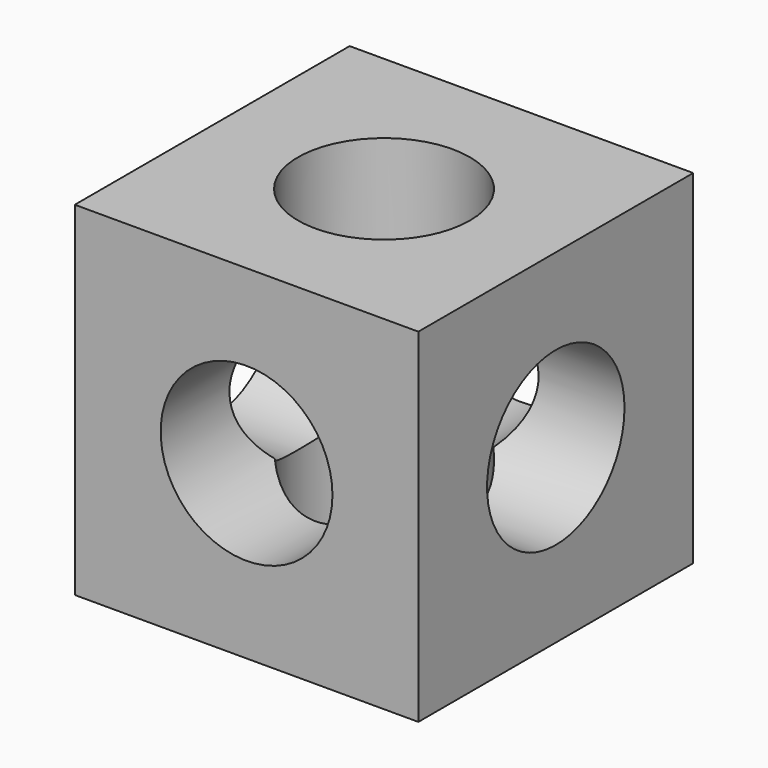
from build123d import *

# Parameters (mm, degrees)
F0_W     = 20
F0_H     = 20
F1_DEPTH = 20
F2_R     = 5
F3_DEPTH = 25
F4_R     = 5
F5_DEPTH = 25
F6_R     = 5
F7_DEPTH = 25


with BuildPart() as f1:
    # F0 (on Top) → F1 (new body)
    with BuildSketch(Plane.XY):
        with Locations((10, 10)):
            Rectangle(F0_W, F0_H)
    extrude(amount=F1_DEPTH)

    # F2 (on face) → F3 (cut)
    with BuildSketch(Plane.XY.offset(20)):
        with Locations((10, 10)):
            Circle(F2_R)
    extrude(amount=-F3_DEPTH, mode=Mode.SUBTRACT)

    # F4 (on face) → F5 (cut)
    with BuildSketch(Plane.XZ):
        with Locations((10, 10)):
            Circle(F4_R)
    extrude(amount=-F5_DEPTH, mode=Mode.SUBTRACT)

    # F6 (on face) → F7 (cut)
    with BuildSketch(Plane.YZ.offset(20)):
        with Locations((10, 10)):
            Circle(F6_R)
    extrude(amount=-F7_DEPTH, mode=Mode.SUBTRACT)


solid = f1.part
